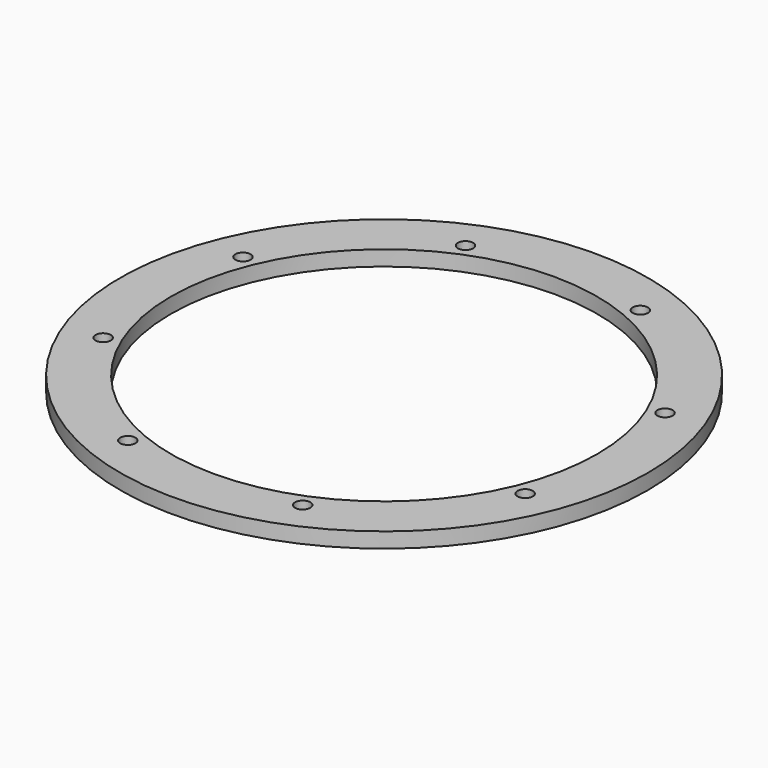
from build123d import *

# Parameters (mm, degrees)
CYLINDER250_R               = 1.5
CYLINDER250_DEPTH           = 20
CYLINDER250_PLACEMENT_ANGLE = 45
CYLINDER251_R               = 1.5
CYLINDER251_DEPTH           = 20
CYLINDER252_R               = 1.5
CYLINDER252_DEPTH           = 20
CYLINDER252_PLACEMENT_ANGLE = 135
CYLINDER247_R               = 1.5
CYLINDER247_DEPTH           = 20
CYLINDER249_R               = 1.5
CYLINDER249_DEPTH           = 20
CYLINDER249_PLACEMENT_ANGLE = 225
CYLINDER246_R               = 1.5
CYLINDER246_DEPTH           = 20
CYLINDER248_R               = 1.5
CYLINDER248_DEPTH           = 20
CYLINDER248_PLACEMENT_ANGLE = 45
CYLINDER245_R               = 1.5
CYLINDER245_DEPTH           = 20
COMPOUND224_PLACEMENT_ANGLE = 22.5
TUBE025_R                   = 52
TUBE025_R_2                 = 42
TUBE025_DEPTH               = 3


with BuildPart() as obj1:
    # Cylinder250 → Cylinder250 (new body)
    with BuildSketch(Plane.XY):
        Circle(CYLINDER250_R)
    extrude(amount=CYLINDER250_DEPTH)


with BuildPart() as obj1_1:
    # Cylinder250 placement: moved
    add(obj1.part.moved(Location((-31.819805, 31.819805, -18))).rotate(Axis((-31.819805, 31.819805, -18), (0, 0, 1)), CYLINDER250_PLACEMENT_ANGLE))


with BuildPart() as obj2:
    # Cylinder251 → Cylinder251 (new body)
    with BuildSketch(Plane(origin=(-45, 0, -18), x_dir=(0, 1, 0), z_dir=(0, 0, 1))):
        Circle(CYLINDER251_R)
    extrude(amount=CYLINDER251_DEPTH)


with BuildPart() as obj3:
    # Cylinder252 → Cylinder252 (new body)
    with BuildSketch(Plane.XY):
        Circle(CYLINDER252_R)
    extrude(amount=CYLINDER252_DEPTH)


with BuildPart() as obj3_1:
    # Cylinder252 placement: moved
    add(obj3.part.moved(Location((-31.819805, -31.819805, -18))).rotate(Axis((-31.819805, -31.819805, -18), (0, 0, 1)), CYLINDER252_PLACEMENT_ANGLE))


with BuildPart() as obj4:
    # Cylinder247 → Cylinder247 (new body)
    with BuildSketch(Plane(origin=(0, -45, -18), x_dir=(-1, 0, 0), z_dir=(0, 0, 1))):
        Circle(CYLINDER247_R)
    extrude(amount=CYLINDER247_DEPTH)


with BuildPart() as obj5:
    # Cylinder249 → Cylinder249 (new body)
    with BuildSketch(Plane.XY):
        Circle(CYLINDER249_R)
    extrude(amount=CYLINDER249_DEPTH)


with BuildPart() as obj5_1:
    # Cylinder249 placement: moved
    add(obj5.part.moved(Location((31.819805, -31.819805, -18))).rotate(Axis((31.819805, -31.819805, -18), (0, 0, 1)), CYLINDER249_PLACEMENT_ANGLE))


with BuildPart() as obj6:
    # Cylinder246 → Cylinder246 (new body)
    with BuildSketch(Plane(origin=(45, 0, -18), x_dir=(0, -1, 0), z_dir=(0, 0, 1))):
        Circle(CYLINDER246_R)
    extrude(amount=CYLINDER246_DEPTH)


with BuildPart() as obj7:
    # Cylinder248 → Cylinder248 (new body)
    with BuildSketch(Plane.XY):
        Circle(CYLINDER248_R)
    extrude(amount=CYLINDER248_DEPTH)


with BuildPart() as obj7_1:
    # Cylinder248 placement: moved
    add(obj7.part.moved(Location((31.819805, 31.819805, -18))).rotate(Axis((31.819805, 31.819805, -18), (0, 0, -1)), CYLINDER248_PLACEMENT_ANGLE))


with BuildPart() as compound224:
    # Cylinder245 → Cylinder245 (new body)
    with BuildSketch(Plane(origin=(0, 45, -18), x_dir=(1, 0, 0), z_dir=(0, 0, 1))):
        Circle(CYLINDER245_R)
    extrude(amount=CYLINDER245_DEPTH)

    # Compound224: union obj1, obj2, obj3, obj4, obj5, obj6, obj7
    add(obj1_1.part)
    add(obj2.part)
    add(obj3_1.part)
    add(obj4.part)
    add(obj5_1.part)
    add(obj6.part)
    add(obj7_1.part)


with BuildPart() as compound224_1:
    # Compound224 placement: moved
    add(compound224.part.rotate(Axis((0, 0, 0), (0, 0, 1)), COMPOUND224_PLACEMENT_ANGLE))


with BuildPart() as j_max_motor_washer:
    # Tube025 → Tube025 (new body)
    with BuildSketch(Plane.XY.offset(-11)):
        Circle(TUBE025_R)
        Circle(TUBE025_R_2, mode=Mode.SUBTRACT)
    extrude(amount=TUBE025_DEPTH)

    # Cut118: cut Compound224
    add(compound224_1.part, mode=Mode.SUBTRACT)


solid = j_max_motor_washer.part
